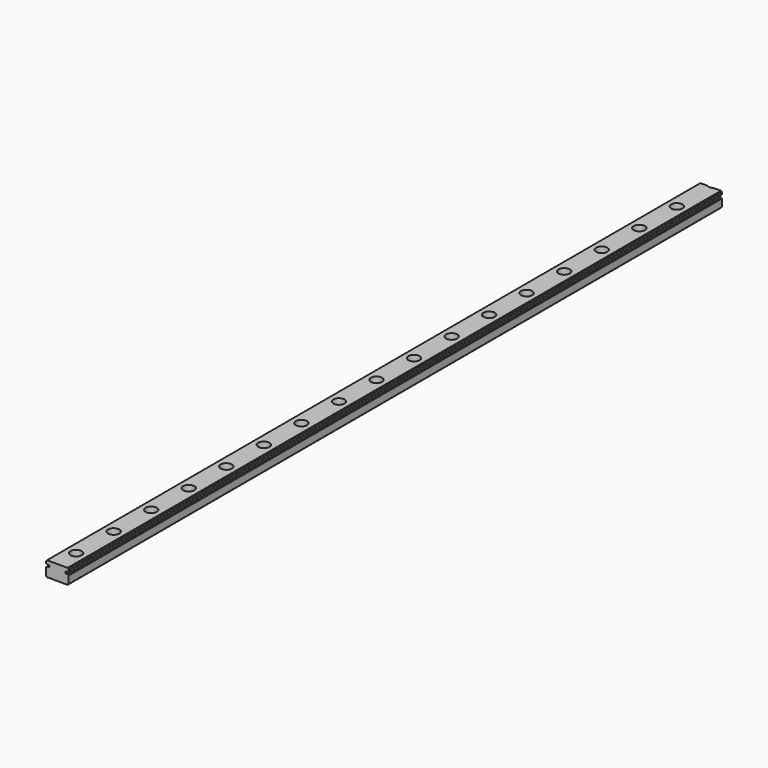
from build123d import *

# Parameters (mm, degrees)
PAD_DEPTH     = 435
SKETCH001_R   = 1.5
HOLE_DEPTH    = 8
SKETCH002_R   = 3
HOLE001_DEPTH = 4.5
CHAMFER_SIZE  = 0.5


with BuildPart() as part:
    # Sketch → Pad (new body)
    with BuildSketch(Plane.XZ):
        with BuildLine():
            Line((-12, 5), (-10.7, 5))
            ThreePointArc((-10.7, 5), (-10.2, 5.5), (-10.7, 6))
            Line((-10.7, 6), (-12, 6))
            Line((-12, 6), (-12, 8))
            Line((-12, 8), (0, 8))
            Line((0, 8), (0, 6))
            Line((0, 6), (-1.3, 6))
            ThreePointArc((-1.3, 6), (-1.8, 5.5), (-1.3, 5))
            Line((-1.3, 5), (0, 5))
            Line((0, 5), (0, 0))
            Line((-9.5, 0), (0, 0))
            Line((-9.5, 0), (-9.5, 0.2))
            Line((-10, 0.2), (-9.5, 0.2))
            Line((-10, 0), (-10, 0.2))
            Line((-12, 0), (-10, 0))
            Line((-12, 5), (-12, 0))
        make_face()
    extrude(amount=-PAD_DEPTH)

    # Sketch001 (on Face6 of Pad) → Hole (cut)
    with BuildSketch(Plane(origin=(0, 0, 8), x_dir=(-1, 0, 0), z_dir=(0, 0, 1))):
        with Locations((6, -12.5)):
            Circle(SKETCH001_R)
        with Locations((6, -37.5)):
            Circle(SKETCH001_R)
        with Locations((6, -62.5)):
            Circle(SKETCH001_R)
        with Locations((6, -87.5)):
            Circle(SKETCH001_R)
        with Locations((6, -112.5)):
            Circle(SKETCH001_R)
        with Locations((6, -137.5)):
            Circle(SKETCH001_R)
        with Locations((6, -162.5)):
            Circle(SKETCH001_R)
        with Locations((6, -187.5)):
            Circle(SKETCH001_R)
        with Locations((6, -212.5)):
            Circle(SKETCH001_R)
        with Locations((6, -237.5)):
            Circle(SKETCH001_R)
        with Locations((6, -262.5)):
            Circle(SKETCH001_R)
        with Locations((6, -287.5)):
            Circle(SKETCH001_R)
        with Locations((6, -312.5)):
            Circle(SKETCH001_R)
        with Locations((6, -337.5)):
            Circle(SKETCH001_R)
        with Locations((6, -362.5)):
            Circle(SKETCH001_R)
        with Locations((6, -387.5)):
            Circle(SKETCH001_R)
        with Locations((6, -412.5)):
            Circle(SKETCH001_R)
        with Locations((6, -437.5)):
            Circle(SKETCH001_R)
        with Locations((6, -462.5)):
            Circle(SKETCH001_R)
        with Locations((6, -487.5)):
            Circle(SKETCH001_R)
        with Locations((6, -512.5)):
            Circle(SKETCH001_R)
        with Locations((6, -537.5)):
            Circle(SKETCH001_R)
        with Locations((6, -562.5)):
            Circle(SKETCH001_R)
        with Locations((6, -587.5)):
            Circle(SKETCH001_R)
        with Locations((6, -612.5)):
            Circle(SKETCH001_R)
        with Locations((6, -637.5)):
            Circle(SKETCH001_R)
        with Locations((6, -662.5)):
            Circle(SKETCH001_R)
        with Locations((6, -687.5)):
            Circle(SKETCH001_R)
        with Locations((6, -712.5)):
            Circle(SKETCH001_R)
        with Locations((6, -737.5)):
            Circle(SKETCH001_R)
        with Locations((6, -762.5)):
            Circle(SKETCH001_R)
        with Locations((6, -787.5)):
            Circle(SKETCH001_R)
        with Locations((6, -812.5)):
            Circle(SKETCH001_R)
        with Locations((6, -837.5)):
            Circle(SKETCH001_R)
        with Locations((6, -862.5)):
            Circle(SKETCH001_R)
        with Locations((6, -887.5)):
            Circle(SKETCH001_R)
        with Locations((6, -912.5)):
            Circle(SKETCH001_R)
        with Locations((6, -937.5)):
            Circle(SKETCH001_R)
        with Locations((6, -962.5)):
            Circle(SKETCH001_R)
        with Locations((6, -987.5)):
            Circle(SKETCH001_R)
    extrude(amount=-HOLE_DEPTH, mode=Mode.SUBTRACT)

    # Sketch002 (on Face6 of Pad) → Hole001 (cut)
    with BuildSketch(Plane(origin=(0, 0, 8), x_dir=(-1, 0, 0), z_dir=(0, 0, 1))):
        with Locations((6, -12.5)):
            Circle(SKETCH002_R)
        with Locations((6, -37.5)):
            Circle(SKETCH002_R)
        with Locations((6, -62.5)):
            Circle(SKETCH002_R)
        with Locations((6, -87.5)):
            Circle(SKETCH002_R)
        with Locations((6, -112.5)):
            Circle(SKETCH002_R)
        with Locations((6, -137.5)):
            Circle(SKETCH002_R)
        with Locations((6, -162.5)):
            Circle(SKETCH002_R)
        with Locations((6, -187.5)):
            Circle(SKETCH002_R)
        with Locations((6, -212.5)):
            Circle(SKETCH002_R)
        with Locations((6, -237.5)):
            Circle(SKETCH002_R)
        with Locations((6, -262.5)):
            Circle(SKETCH002_R)
        with Locations((6, -287.5)):
            Circle(SKETCH002_R)
        with Locations((6, -312.5)):
            Circle(SKETCH002_R)
        with Locations((6, -337.5)):
            Circle(SKETCH002_R)
        with Locations((6, -362.5)):
            Circle(SKETCH002_R)
        with Locations((6, -387.5)):
            Circle(SKETCH002_R)
        with Locations((6, -412.5)):
            Circle(SKETCH002_R)
        with Locations((6, -437.5)):
            Circle(SKETCH002_R)
        with Locations((6, -462.5)):
            Circle(SKETCH002_R)
        with Locations((6, -487.5)):
            Circle(SKETCH002_R)
        with Locations((6, -512.5)):
            Circle(SKETCH002_R)
        with Locations((6, -537.5)):
            Circle(SKETCH002_R)
        with Locations((6, -562.5)):
            Circle(SKETCH002_R)
        with Locations((6, -587.5)):
            Circle(SKETCH002_R)
        with Locations((6, -612.5)):
            Circle(SKETCH002_R)
        with Locations((6, -637.5)):
            Circle(SKETCH002_R)
        with Locations((6, -662.5)):
            Circle(SKETCH002_R)
        with Locations((6, -687.5)):
            Circle(SKETCH002_R)
        with Locations((6, -712.5)):
            Circle(SKETCH002_R)
        with Locations((6, -737.5)):
            Circle(SKETCH002_R)
        with Locations((6, -762.5)):
            Circle(SKETCH002_R)
        with Locations((6, -787.5)):
            Circle(SKETCH002_R)
        with Locations((6, -812.5)):
            Circle(SKETCH002_R)
        with Locations((6, -837.5)):
            Circle(SKETCH002_R)
        with Locations((6, -862.5)):
            Circle(SKETCH002_R)
        with Locations((6, -887.5)):
            Circle(SKETCH002_R)
        with Locations((6, -912.5)):
            Circle(SKETCH002_R)
        with Locations((6, -937.5)):
            Circle(SKETCH002_R)
        with Locations((6, -962.5)):
            Circle(SKETCH002_R)
        with Locations((6, -987.5)):
            Circle(SKETCH002_R)
    extrude(amount=-HOLE001_DEPTH, mode=Mode.SUBTRACT)

    # Chamfer
    chamfer_edges = [part.edges().sort_by_distance(p)[0] for p in [
        (-12, 217.5, 8),
        (-12, 217.5, 6),
        (-12, 217.5, 5),
        (-12, 217.5, 0),
        (0, 217.5, 8),
        (0, 217.5, 6),
        (0, 217.5, 5),
        (0, 217.5, 0),
    ]]
    chamfer(chamfer_edges, length=CHAMFER_SIZE)


solid = part.part
